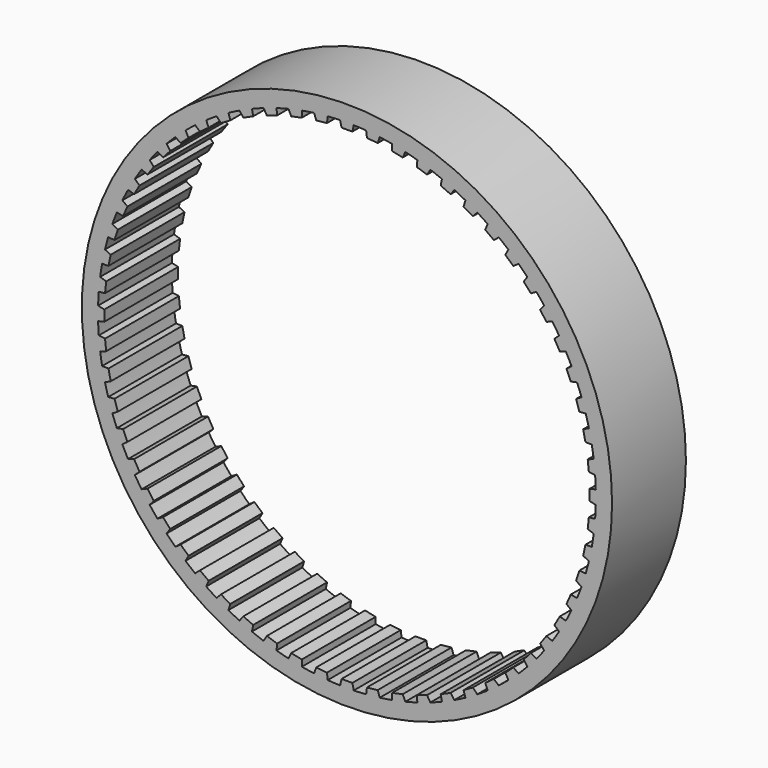
from build123d import *

# Parameters (mm, degrees)
F1_DEPTH = 25.4
F2_R     = 72.944607
F3_DEPTH = 25.4
F5_DEPTH = 25.401


with BuildPart() as f1:
    # F0 (on Front) → F1 (new body)
    with BuildSketch(Plane.XZ):
        with BuildLine():
            Line((-1.484159, 66.76133), (-1.87707, 68.459883))
            ThreePointArc((-1.87707, 68.459883), (-3.58426, 68.391755), (-5.289219, 68.28106))
            Line((-5.289219, 68.28106), (-5.50243, 66.550741))
            Line((-5.50243, 66.550741), (-8.454488, 66.240467))
            Line((-8.454488, 66.240467), (-9.022793, 67.888646))
            ThreePointArc((-9.022793, 67.888646), (-10.71351, 67.64244), (-12.397559, 67.354135))
            Line((-12.397559, 67.354135), (-12.428734, 65.611009))
            Line((-12.428734, 65.611009), (-15.332188, 64.99386))
            Line((-15.332188, 64.99386), (-16.069661, 66.573606))
            ThreePointArc((-16.069661, 66.573606), (-17.725381, 66.152021), (-19.370068, 65.689265))
            Line((-19.370068, 65.689265), (-19.218866, 63.952428))
            Line((-19.218866, 63.952428), (-22.041905, 63.035167))
            Line((-22.041905, 63.035167), (-22.940467, 64.529172))
            ThreePointArc((-22.940467, 64.529172), (-24.543048, 63.936827), (-26.130355, 63.304689))
            Line((-26.130355, 63.304689), (-25.798432, 61.593172))
            Line((-25.798432, 61.593172), (-28.510126, 60.385848))
            Line((-28.510126, 60.385848), (-29.559932, 61.777742))
            ThreePointArc((-29.559932, 61.777742), (-31.091817, 61.021127), (-32.604352, 60.226533))
            Line((-32.604352, 60.226533), (-32.095345, 58.559087))
            Line((-32.095345, 58.559087), (-34.665985, 57.074928))
            Line((-34.665985, 57.074928), (-35.855532, 58.349463))
            ThreePointArc((-35.855532, 58.349463), (-37.299937, 57.436867), (-38.721128, 56.488523))
            Line((-38.721128, 56.488523), (-38.040615, 54.883417))
            Line((-38.040615, 54.883417), (-40.442035, 53.138683))
            Line((-40.442035, 53.138683), (-41.758291, 54.281895))
            ThreePointArc((-41.758291, 54.281895), (-43.099392, 53.223317), (-44.413669, 52.131613))
            Line((-44.413669, 52.131613), (-43.569104, 50.606433))
            Line((-43.569104, 50.606433), (-45.774994, 48.62024))
            Line((-45.774994, 48.62024), (-47.203538, 49.619603))
            ThreePointArc((-47.203538, 49.619603), (-48.42664, 48.42664), (-49.619603, 47.203538))
            Line((-49.619603, 47.203538), (-48.62024, 45.774994))
            Line((-48.62024, 45.774994), (-50.606433, 43.569104))
            Line((-50.606433, 43.569104), (-52.131613, 44.413669))
            ThreePointArc((-52.131613, 44.413669), (-53.223317, 43.099392), (-54.281895, 41.758291))
            Line((-54.281895, 41.758291), (-53.138683, 40.442035))
            Line((-53.138683, 40.442035), (-54.883417, 38.040615))
            Line((-54.883417, 38.040615), (-56.488523, 38.721128))
            ThreePointArc((-56.488523, 38.721128), (-57.436867, 37.299937), (-58.349463, 35.855532))
            Line((-58.349463, 35.855532), (-57.074928, 34.665985))
            Line((-57.074928, 34.665985), (-58.559087, 32.095345))
            Line((-58.559087, 32.095345), (-60.226533, 32.604352))
            ThreePointArc((-60.226533, 32.604352), (-61.021127, 31.091817), (-61.777742, 29.559932))
            Line((-61.777742, 29.559932), (-60.385848, 28.510126))
            Line((-60.385848, 28.510126), (-61.593172, 25.798432))
            Line((-61.593172, 25.798432), (-63.304689, 26.130355))
            ThreePointArc((-63.304689, 26.130355), (-63.936827, 24.543048), (-64.529172, 22.940467))
            Line((-64.529172, 22.940467), (-63.035167, 22.041905))
            Line((-63.035167, 22.041905), (-63.952428, 19.218866))
            Line((-63.952428, 19.218866), (-65.689265, 19.370068))
            ThreePointArc((-65.689265, 19.370068), (-66.152021, 17.725381), (-66.573606, 16.069661))
            Line((-66.573606, 16.069661), (-64.99386, 15.332188))
            Line((-64.99386, 15.332188), (-65.611009, 12.428734))
            Line((-65.611009, 12.428734), (-67.354135, 12.397559))
            ThreePointArc((-67.354135, 12.397559), (-67.64244, 10.71351), (-67.888646, 9.022793))
            Line((-67.888646, 9.022793), (-66.240467, 8.454488))
            Line((-66.240467, 8.454488), (-66.550741, 5.50243))
            Line((-66.550741, 5.50243), (-68.28106, 5.289219))
            ThreePointArc((-68.28106, 5.289219), (-68.391755, 3.58426), (-68.459883, 1.87707))
            Line((-68.459883, 1.87707), (-66.76133, 1.484159))
            Line((-66.76133, 1.484159), (-66.76133, -1.484159))
            Line((-66.76133, -1.484159), (-68.459883, -1.87707))
            ThreePointArc((-68.459883, -1.87707), (-68.391755, -3.58426), (-68.28106, -5.289219))
            Line((-68.28106, -5.289219), (-66.550741, -5.50243))
            Line((-66.550741, -5.50243), (-66.240467, -8.454488))
            Line((-66.240467, -8.454488), (-67.888646, -9.022793))
            ThreePointArc((-67.888646, -9.022793), (-67.64244, -10.71351), (-67.354135, -12.397559))
            Line((-67.354135, -12.397559), (-65.611009, -12.428734))
            Line((-65.611009, -12.428734), (-64.99386, -15.332188))
            Line((-64.99386, -15.332188), (-66.573606, -16.069661))
            ThreePointArc((-66.573606, -16.069661), (-66.152021, -17.725381), (-65.689265, -19.370068))
            Line((-65.689265, -19.370068), (-63.952428, -19.218866))
            Line((-63.952428, -19.218866), (-63.035167, -22.041905))
            Line((-63.035167, -22.041905), (-64.529172, -22.940467))
            ThreePointArc((-64.529172, -22.940467), (-63.936827, -24.543048), (-63.304689, -26.130355))
            Line((-63.304689, -26.130355), (-61.593172, -25.798432))
            Line((-61.593172, -25.798432), (-60.385848, -28.510126))
            Line((-60.385848, -28.510126), (-61.777742, -29.559932))
            ThreePointArc((-61.777742, -29.559932), (-61.021127, -31.091817), (-60.226533, -32.604352))
            Line((-60.226533, -32.604352), (-58.559087, -32.095345))
            Line((-58.559087, -32.095345), (-57.074928, -34.665985))
            Line((-57.074928, -34.665985), (-58.349463, -35.855532))
            ThreePointArc((-58.349463, -35.855532), (-57.436867, -37.299937), (-56.488523, -38.721128))
            Line((-56.488523, -38.721128), (-54.883417, -38.040615))
            Line((-54.883417, -38.040615), (-53.138683, -40.442035))
            Line((-53.138683, -40.442035), (-54.281895, -41.758291))
            ThreePointArc((-54.281895, -41.758291), (-53.223317, -43.099392), (-52.131613, -44.413669))
            Line((-52.131613, -44.413669), (-50.606433, -43.569104))
            Line((-50.606433, -43.569104), (-48.62024, -45.774994))
            Line((-48.62024, -45.774994), (-49.619603, -47.203538))
            ThreePointArc((-49.619603, -47.203538), (-48.42664, -48.42664), (-47.203538, -49.619603))
            Line((-47.203538, -49.619603), (-45.774994, -48.62024))
            Line((-45.774994, -48.62024), (-43.569104, -50.606433))
            Line((-43.569104, -50.606433), (-44.413669, -52.131613))
            ThreePointArc((-44.413669, -52.131613), (-43.099392, -53.223317), (-41.758291, -54.281895))
            Line((-41.758291, -54.281895), (-40.442035, -53.138683))
            Line((-40.442035, -53.138683), (-38.040615, -54.883417))
            Line((-38.040615, -54.883417), (-38.721128, -56.488523))
            ThreePointArc((-38.721128, -56.488523), (-37.299937, -57.436867), (-35.855532, -58.349463))
            Line((-35.855532, -58.349463), (-34.665985, -57.074928))
            Line((-34.665985, -57.074928), (-32.095345, -58.559087))
            Line((-32.095345, -58.559087), (-32.604352, -60.226533))
            ThreePointArc((-32.604352, -60.226533), (-31.091817, -61.021127), (-29.559932, -61.777742))
            Line((-29.559932, -61.777742), (-28.510126, -60.385848))
            Line((-28.510126, -60.385848), (-25.798432, -61.593172))
            Line((-25.798432, -61.593172), (-26.130355, -63.304689))
            ThreePointArc((-26.130355, -63.304689), (-24.543048, -63.936827), (-22.940467, -64.529172))
            Line((-22.940467, -64.529172), (-22.041905, -63.035167))
            Line((-22.041905, -63.035167), (-19.218866, -63.952428))
            Line((-19.218866, -63.952428), (-19.370068, -65.689265))
            ThreePointArc((-19.370068, -65.689265), (-17.725381, -66.152021), (-16.069661, -66.573606))
            Line((-16.069661, -66.573606), (-15.332188, -64.99386))
            Line((-15.332188, -64.99386), (-12.428734, -65.611009))
            Line((-12.428734, -65.611009), (-12.397559, -67.354135))
            ThreePointArc((-12.397559, -67.354135), (-10.71351, -67.64244), (-9.022793, -67.888646))
            Line((-9.022793, -67.888646), (-8.454488, -66.240467))
            Line((-8.454488, -66.240467), (-5.50243, -66.550741))
            Line((-5.50243, -66.550741), (-5.289219, -68.28106))
            ThreePointArc((-5.289219, -68.28106), (-3.58426, -68.391755), (-1.87707, -68.459883))
            Line((-1.87707, -68.459883), (-1.484159, -66.76133))
            Line((-1.484159, -66.76133), (1.484159, -66.76133))
            Line((1.484159, -66.76133), (1.87707, -68.459883))
            ThreePointArc((1.87707, -68.459883), (3.58426, -68.391755), (5.289219, -68.28106))
            Line((5.289219, -68.28106), (5.50243, -66.550741))
            Line((5.50243, -66.550741), (8.454488, -66.240467))
            Line((8.454488, -66.240467), (9.022793, -67.888646))
            ThreePointArc((9.022793, -67.888646), (10.71351, -67.64244), (12.397559, -67.354135))
            Line((12.397559, -67.354135), (12.428734, -65.611009))
            Line((12.428734, -65.611009), (15.332188, -64.99386))
            Line((15.332188, -64.99386), (16.069661, -66.573606))
            ThreePointArc((16.069661, -66.573606), (17.725381, -66.152021), (19.370068, -65.689265))
            Line((19.370068, -65.689265), (19.218866, -63.952428))
            Line((19.218866, -63.952428), (22.041905, -63.035167))
            Line((22.041905, -63.035167), (22.940467, -64.529172))
            ThreePointArc((22.940467, -64.529172), (24.543048, -63.936827), (26.130355, -63.304689))
            Line((26.130355, -63.304689), (25.798432, -61.593172))
            Line((25.798432, -61.593172), (28.510126, -60.385848))
            Line((28.510126, -60.385848), (29.559932, -61.777742))
            ThreePointArc((29.559932, -61.777742), (31.091817, -61.021127), (32.604352, -60.226533))
            Line((32.604352, -60.226533), (32.095345, -58.559087))
            Line((32.095345, -58.559087), (34.665985, -57.074928))
            Line((34.665985, -57.074928), (35.855532, -58.349463))
            ThreePointArc((35.855532, -58.349463), (37.299937, -57.436867), (38.721128, -56.488523))
            Line((38.721128, -56.488523), (38.040615, -54.883417))
            Line((38.040615, -54.883417), (40.442035, -53.138683))
            Line((40.442035, -53.138683), (41.758291, -54.281895))
            ThreePointArc((41.758291, -54.281895), (43.099392, -53.223317), (44.413669, -52.131613))
            Line((44.413669, -52.131613), (43.569104, -50.606433))
            Line((43.569104, -50.606433), (45.774994, -48.62024))
            Line((45.774994, -48.62024), (47.203538, -49.619603))
            ThreePointArc((47.203538, -49.619603), (48.42664, -48.42664), (49.619603, -47.203538))
            Line((49.619603, -47.203538), (48.62024, -45.774994))
            Line((48.62024, -45.774994), (50.606433, -43.569104))
            Line((50.606433, -43.569104), (52.131613, -44.413669))
            ThreePointArc((52.131613, -44.413669), (53.223317, -43.099392), (54.281895, -41.758291))
            Line((54.281895, -41.758291), (53.138683, -40.442035))
            Line((53.138683, -40.442035), (54.883417, -38.040615))
            Line((54.883417, -38.040615), (56.488523, -38.721128))
            ThreePointArc((56.488523, -38.721128), (57.436867, -37.299937), (58.349463, -35.855532))
            Line((58.349463, -35.855532), (57.074928, -34.665985))
            Line((57.074928, -34.665985), (58.559087, -32.095345))
            Line((58.559087, -32.095345), (60.226533, -32.604352))
            ThreePointArc((60.226533, -32.604352), (61.021127, -31.091817), (61.777742, -29.559932))
            Line((61.777742, -29.559932), (60.385848, -28.510126))
            Line((60.385848, -28.510126), (61.593172, -25.798432))
            Line((61.593172, -25.798432), (63.304689, -26.130355))
            ThreePointArc((63.304689, -26.130355), (63.936827, -24.543048), (64.529172, -22.940467))
            Line((64.529172, -22.940467), (63.035167, -22.041905))
            Line((63.035167, -22.041905), (63.952428, -19.218866))
            Line((63.952428, -19.218866), (65.689265, -19.370068))
            ThreePointArc((65.689265, -19.370068), (66.152021, -17.725381), (66.573606, -16.069661))
            Line((66.573606, -16.069661), (64.99386, -15.332188))
            Line((64.99386, -15.332188), (65.611009, -12.428734))
            Line((65.611009, -12.428734), (67.354135, -12.397559))
            ThreePointArc((67.354135, -12.397559), (67.64244, -10.71351), (67.888646, -9.022793))
            Line((67.888646, -9.022793), (66.240467, -8.454488))
            Line((66.240467, -8.454488), (66.550741, -5.50243))
            Line((66.550741, -5.50243), (68.28106, -5.289219))
            ThreePointArc((68.28106, -5.289219), (68.391755, -3.58426), (68.459883, -1.87707))
            Line((68.459883, -1.87707), (66.76133, -1.484159))
            Line((66.76133, -1.484159), (66.76133, 1.484159))
            Line((66.76133, 1.484159), (68.459883, 1.87707))
            ThreePointArc((68.459883, 1.87707), (68.391755, 3.58426), (68.28106, 5.289219))
            Line((68.28106, 5.289219), (66.550741, 5.50243))
            Line((66.550741, 5.50243), (66.240467, 8.454488))
            Line((66.240467, 8.454488), (67.888646, 9.022793))
            ThreePointArc((67.888646, 9.022793), (67.64244, 10.71351), (67.354135, 12.397559))
            Line((67.354135, 12.397559), (65.611009, 12.428734))
            Line((65.611009, 12.428734), (64.99386, 15.332188))
            Line((64.99386, 15.332188), (66.573606, 16.069661))
            ThreePointArc((66.573606, 16.069661), (66.152021, 17.725381), (65.689265, 19.370068))
            Line((65.689265, 19.370068), (63.952428, 19.218866))
            Line((63.952428, 19.218866), (63.035167, 22.041905))
            Line((63.035167, 22.041905), (64.529172, 22.940467))
            ThreePointArc((64.529172, 22.940467), (63.936827, 24.543048), (63.304689, 26.130355))
            Line((63.304689, 26.130355), (61.593172, 25.798432))
            Line((61.593172, 25.798432), (60.385848, 28.510126))
            Line((60.385848, 28.510126), (61.777742, 29.559932))
            ThreePointArc((61.777742, 29.559932), (61.021127, 31.091817), (60.226533, 32.604352))
            Line((60.226533, 32.604352), (58.559087, 32.095345))
            Line((58.559087, 32.095345), (57.074928, 34.665985))
            Line((57.074928, 34.665985), (58.349463, 35.855532))
            ThreePointArc((58.349463, 35.855532), (57.436867, 37.299937), (56.488523, 38.721128))
            Line((56.488523, 38.721128), (54.883417, 38.040615))
            Line((54.883417, 38.040615), (53.138683, 40.442035))
            Line((53.138683, 40.442035), (54.281895, 41.758291))
            ThreePointArc((54.281895, 41.758291), (53.223317, 43.099392), (52.131613, 44.413669))
            Line((52.131613, 44.413669), (50.606433, 43.569104))
            Line((50.606433, 43.569104), (48.62024, 45.774994))
            Line((48.62024, 45.774994), (49.619603, 47.203538))
            ThreePointArc((49.619603, 47.203538), (48.42664, 48.42664), (47.203538, 49.619603))
            Line((47.203538, 49.619603), (45.774994, 48.62024))
            Line((45.774994, 48.62024), (43.569104, 50.606433))
            Line((43.569104, 50.606433), (44.413669, 52.131613))
            ThreePointArc((44.413669, 52.131613), (43.099392, 53.223317), (41.758291, 54.281895))
            Line((41.758291, 54.281895), (40.442035, 53.138683))
            Line((40.442035, 53.138683), (38.040615, 54.883417))
            Line((38.040615, 54.883417), (38.721128, 56.488523))
            ThreePointArc((38.721128, 56.488523), (37.299937, 57.436867), (35.855532, 58.349463))
            Line((35.855532, 58.349463), (34.665985, 57.074928))
            Line((34.665985, 57.074928), (32.095345, 58.559087))
            Line((32.095345, 58.559087), (32.604352, 60.226533))
            ThreePointArc((32.604352, 60.226533), (31.091817, 61.021127), (29.559932, 61.777742))
            Line((29.559932, 61.777742), (28.510126, 60.385848))
            Line((28.510126, 60.385848), (25.798432, 61.593172))
            Line((25.798432, 61.593172), (26.130355, 63.304689))
            ThreePointArc((26.130355, 63.304689), (24.543048, 63.936827), (22.940467, 64.529172))
            Line((22.940467, 64.529172), (22.041905, 63.035167))
            Line((22.041905, 63.035167), (19.218866, 63.952428))
            Line((19.218866, 63.952428), (19.370068, 65.689265))
            ThreePointArc((19.370068, 65.689265), (17.725381, 66.152021), (16.069661, 66.573606))
            Line((16.069661, 66.573606), (15.332188, 64.99386))
            Line((15.332188, 64.99386), (12.428734, 65.611009))
            Line((12.428734, 65.611009), (12.397559, 67.354135))
            ThreePointArc((12.397559, 67.354135), (10.71351, 67.64244), (9.022793, 67.888646))
            Line((9.022793, 67.888646), (8.454488, 66.240467))
            Line((8.454488, 66.240467), (5.50243, 66.550741))
            Line((5.50243, 66.550741), (5.289219, 68.28106))
            ThreePointArc((5.289219, 68.28106), (3.58426, 68.391755), (1.87707, 68.459883))
            Line((1.87707, 68.459883), (1.484159, 66.76133))
            Line((1.484159, 66.76133), (-1.484159, 66.76133))
        make_face()
    extrude(amount=F1_DEPTH)

    # F2 (on face) → F3 (join)
    with BuildSketch(Plane.XZ.offset(25.4)):
        Circle(F2_R)
        with BuildLine():
            Line((58.559087, -32.095345), (57.074928, -34.665985))
            Line((57.074928, -34.665985), (58.349463, -35.855532))
            ThreePointArc((58.349463, -35.855532), (57.436867, -37.299937), (56.488523, -38.721128))
            Line((56.488523, -38.721128), (54.883417, -38.040615))
            Line((54.883417, -38.040615), (53.138683, -40.442035))
            Line((53.138683, -40.442035), (54.281895, -41.758291))
            ThreePointArc((54.281895, -41.758291), (53.223317, -43.099392), (52.131613, -44.413669))
            Line((52.131613, -44.413669), (50.606433, -43.569104))
            Line((50.606433, -43.569104), (48.62024, -45.774994))
            Line((48.62024, -45.774994), (49.619603, -47.203538))
            ThreePointArc((49.619603, -47.203538), (48.42664, -48.42664), (47.203538, -49.619603))
            Line((47.203538, -49.619603), (45.774994, -48.62024))
            Line((45.774994, -48.62024), (43.569104, -50.606433))
            Line((43.569104, -50.606433), (44.413669, -52.131613))
            ThreePointArc((44.413669, -52.131613), (43.099392, -53.223317), (41.758291, -54.281895))
            Line((41.758291, -54.281895), (40.442035, -53.138683))
            Line((40.442035, -53.138683), (38.040615, -54.883417))
            Line((38.040615, -54.883417), (38.721128, -56.488523))
            ThreePointArc((38.721128, -56.488523), (37.299937, -57.436867), (35.855532, -58.349463))
            Line((35.855532, -58.349463), (34.665985, -57.074928))
            Line((34.665985, -57.074928), (32.095345, -58.559087))
            Line((32.095345, -58.559087), (32.604352, -60.226533))
            ThreePointArc((32.604352, -60.226533), (31.091817, -61.021127), (29.559932, -61.777742))
            Line((29.559932, -61.777742), (28.510126, -60.385848))
            Line((28.510126, -60.385848), (25.798432, -61.593172))
            Line((25.798432, -61.593172), (26.130355, -63.304689))
            ThreePointArc((26.130355, -63.304689), (24.543048, -63.936827), (22.940467, -64.529172))
            Line((22.940467, -64.529172), (22.041905, -63.035167))
            Line((22.041905, -63.035167), (19.218866, -63.952428))
            Line((19.218866, -63.952428), (19.370068, -65.689265))
            ThreePointArc((19.370068, -65.689265), (17.725381, -66.152021), (16.069661, -66.573606))
            Line((16.069661, -66.573606), (15.332188, -64.99386))
            Line((15.332188, -64.99386), (12.428734, -65.611009))
            Line((12.428734, -65.611009), (12.397559, -67.354135))
            ThreePointArc((12.397559, -67.354135), (10.71351, -67.64244), (9.022793, -67.888646))
            Line((9.022793, -67.888646), (8.454488, -66.240467))
            Line((8.454488, -66.240467), (5.50243, -66.550741))
            Line((5.50243, -66.550741), (5.289219, -68.28106))
            ThreePointArc((5.289219, -68.28106), (3.58426, -68.391755), (1.87707, -68.459883))
            Line((1.87707, -68.459883), (1.484159, -66.76133))
            Line((1.484159, -66.76133), (-1.484159, -66.76133))
            Line((-1.484159, -66.76133), (-1.87707, -68.459883))
            ThreePointArc((-1.87707, -68.459883), (-3.58426, -68.391755), (-5.289219, -68.28106))
            Line((-5.289219, -68.28106), (-5.50243, -66.550741))
            Line((-5.50243, -66.550741), (-8.454488, -66.240467))
            Line((-8.454488, -66.240467), (-9.022793, -67.888646))
            ThreePointArc((-9.022793, -67.888646), (-10.71351, -67.64244), (-12.397559, -67.354135))
            Line((-12.397559, -67.354135), (-12.428734, -65.611009))
            Line((-12.428734, -65.611009), (-15.332188, -64.99386))
            Line((-15.332188, -64.99386), (-16.069661, -66.573606))
            ThreePointArc((-16.069661, -66.573606), (-17.725381, -66.152021), (-19.370068, -65.689265))
            Line((-19.370068, -65.689265), (-19.218866, -63.952428))
            Line((-19.218866, -63.952428), (-22.041905, -63.035167))
            Line((-22.041905, -63.035167), (-22.940467, -64.529172))
            ThreePointArc((-22.940467, -64.529172), (-24.543048, -63.936827), (-26.130355, -63.304689))
            Line((-26.130355, -63.304689), (-25.798432, -61.593172))
            Line((-25.798432, -61.593172), (-28.510126, -60.385848))
            Line((-28.510126, -60.385848), (-29.559932, -61.777742))
            ThreePointArc((-29.559932, -61.777742), (-31.091817, -61.021127), (-32.604352, -60.226533))
            Line((-32.604352, -60.226533), (-32.095345, -58.559087))
            Line((-32.095345, -58.559087), (-34.665985, -57.074928))
            Line((-34.665985, -57.074928), (-35.855532, -58.349463))
            ThreePointArc((-35.855532, -58.349463), (-37.299937, -57.436867), (-38.721128, -56.488523))
            Line((-38.721128, -56.488523), (-38.040615, -54.883417))
            Line((-38.040615, -54.883417), (-40.442035, -53.138683))
            Line((-40.442035, -53.138683), (-41.758291, -54.281895))
            ThreePointArc((-41.758291, -54.281895), (-43.099392, -53.223317), (-44.413669, -52.131613))
            Line((-44.413669, -52.131613), (-43.569104, -50.606433))
            Line((-43.569104, -50.606433), (-45.774994, -48.62024))
            Line((-45.774994, -48.62024), (-47.203538, -49.619603))
            ThreePointArc((-47.203538, -49.619603), (-48.42664, -48.42664), (-49.619603, -47.203538))
            Line((-49.619603, -47.203538), (-48.62024, -45.774994))
            Line((-48.62024, -45.774994), (-50.606433, -43.569104))
            Line((-50.606433, -43.569104), (-52.131613, -44.413669))
            ThreePointArc((-52.131613, -44.413669), (-53.223317, -43.099392), (-54.281895, -41.758291))
            Line((-54.281895, -41.758291), (-53.138683, -40.442035))
            Line((-53.138683, -40.442035), (-54.883417, -38.040615))
            Line((-54.883417, -38.040615), (-56.488523, -38.721128))
            ThreePointArc((-56.488523, -38.721128), (-57.436867, -37.299937), (-58.349463, -35.855532))
            Line((-58.349463, -35.855532), (-57.074928, -34.665985))
            Line((-57.074928, -34.665985), (-58.559087, -32.095345))
            Line((-58.559087, -32.095345), (-60.226533, -32.604352))
            ThreePointArc((-60.226533, -32.604352), (-61.021127, -31.091817), (-61.777742, -29.559932))
            Line((-61.777742, -29.559932), (-60.385848, -28.510126))
            Line((-60.385848, -28.510126), (-61.593172, -25.798432))
            Line((-61.593172, -25.798432), (-63.304689, -26.130355))
            ThreePointArc((-63.304689, -26.130355), (-63.936827, -24.543048), (-64.529172, -22.940467))
            Line((-64.529172, -22.940467), (-63.035167, -22.041905))
            Line((-63.035167, -22.041905), (-63.952428, -19.218866))
            Line((-63.952428, -19.218866), (-65.689265, -19.370068))
            ThreePointArc((-65.689265, -19.370068), (-66.152021, -17.725381), (-66.573606, -16.069661))
            Line((-66.573606, -16.069661), (-64.99386, -15.332188))
            Line((-64.99386, -15.332188), (-65.611009, -12.428734))
            Line((-65.611009, -12.428734), (-67.354135, -12.397559))
            ThreePointArc((-67.354135, -12.397559), (-67.64244, -10.71351), (-67.888646, -9.022793))
            Line((-67.888646, -9.022793), (-66.240467, -8.454488))
            Line((-66.240467, -8.454488), (-66.550741, -5.50243))
            Line((-66.550741, -5.50243), (-68.28106, -5.289219))
            ThreePointArc((-68.28106, -5.289219), (-68.391755, -3.58426), (-68.459883, -1.87707))
            Line((-68.459883, -1.87707), (-66.76133, -1.484159))
            Line((-66.76133, -1.484159), (-66.76133, 1.484159))
            Line((-66.76133, 1.484159), (-68.459883, 1.87707))
            ThreePointArc((-68.459883, 1.87707), (-68.391755, 3.58426), (-68.28106, 5.289219))
            Line((-68.28106, 5.289219), (-66.550741, 5.50243))
            Line((-66.550741, 5.50243), (-66.240467, 8.454488))
            Line((-66.240467, 8.454488), (-67.888646, 9.022793))
            ThreePointArc((-67.888646, 9.022793), (-67.64244, 10.71351), (-67.354135, 12.397559))
            Line((-67.354135, 12.397559), (-65.611009, 12.428734))
            Line((-65.611009, 12.428734), (-64.99386, 15.332188))
            Line((-64.99386, 15.332188), (-66.573606, 16.069661))
            ThreePointArc((-66.573606, 16.069661), (-66.152021, 17.725381), (-65.689265, 19.370068))
            Line((-65.689265, 19.370068), (-63.952428, 19.218866))
            Line((-63.952428, 19.218866), (-63.035167, 22.041905))
            Line((-63.035167, 22.041905), (-64.529172, 22.940467))
            ThreePointArc((-64.529172, 22.940467), (-63.936827, 24.543048), (-63.304689, 26.130355))
            Line((-63.304689, 26.130355), (-61.593172, 25.798432))
            Line((-61.593172, 25.798432), (-60.385848, 28.510126))
            Line((-60.385848, 28.510126), (-61.777742, 29.559932))
            ThreePointArc((-61.777742, 29.559932), (-61.021127, 31.091817), (-60.226533, 32.604352))
            Line((-60.226533, 32.604352), (-58.559087, 32.095345))
            Line((-58.559087, 32.095345), (-57.074928, 34.665985))
            Line((-57.074928, 34.665985), (-58.349463, 35.855532))
            ThreePointArc((-58.349463, 35.855532), (-57.436867, 37.299937), (-56.488523, 38.721128))
            Line((-56.488523, 38.721128), (-54.883417, 38.040615))
            Line((-54.883417, 38.040615), (-53.138683, 40.442035))
            Line((-53.138683, 40.442035), (-54.281895, 41.758291))
            ThreePointArc((-54.281895, 41.758291), (-53.223317, 43.099392), (-52.131613, 44.413669))
            Line((-52.131613, 44.413669), (-50.606433, 43.569104))
            Line((-50.606433, 43.569104), (-48.62024, 45.774994))
            Line((-48.62024, 45.774994), (-49.619603, 47.203538))
            ThreePointArc((-49.619603, 47.203538), (-48.42664, 48.42664), (-47.203538, 49.619603))
            Line((-47.203538, 49.619603), (-45.774994, 48.62024))
            Line((-45.774994, 48.62024), (-43.569104, 50.606433))
            Line((-43.569104, 50.606433), (-44.413669, 52.131613))
            ThreePointArc((-44.413669, 52.131613), (-43.099392, 53.223317), (-41.758291, 54.281895))
            Line((-41.758291, 54.281895), (-40.442035, 53.138683))
            Line((-40.442035, 53.138683), (-38.040615, 54.883417))
            Line((-38.040615, 54.883417), (-38.721128, 56.488523))
            ThreePointArc((-38.721128, 56.488523), (-37.299937, 57.436867), (-35.855532, 58.349463))
            Line((-35.855532, 58.349463), (-34.665985, 57.074928))
            Line((-34.665985, 57.074928), (-32.095345, 58.559087))
            Line((-32.095345, 58.559087), (-32.604352, 60.226533))
            ThreePointArc((-32.604352, 60.226533), (-31.091817, 61.021127), (-29.559932, 61.777742))
            Line((-29.559932, 61.777742), (-28.510126, 60.385848))
            Line((-28.510126, 60.385848), (-25.798432, 61.593172))
            Line((-25.798432, 61.593172), (-26.130355, 63.304689))
            ThreePointArc((-26.130355, 63.304689), (-24.543048, 63.936827), (-22.940467, 64.529172))
            Line((-22.940467, 64.529172), (-22.041905, 63.035167))
            Line((-22.041905, 63.035167), (-19.218866, 63.952428))
            Line((-19.218866, 63.952428), (-19.370068, 65.689265))
            ThreePointArc((-19.370068, 65.689265), (-17.725381, 66.152021), (-16.069661, 66.573606))
            Line((-16.069661, 66.573606), (-15.332188, 64.99386))
            Line((-15.332188, 64.99386), (-12.428734, 65.611009))
            Line((-12.428734, 65.611009), (-12.397559, 67.354135))
            ThreePointArc((-12.397559, 67.354135), (-10.71351, 67.64244), (-9.022793, 67.888646))
            Line((-9.022793, 67.888646), (-8.454488, 66.240467))
            Line((-8.454488, 66.240467), (-5.50243, 66.550741))
            Line((-5.50243, 66.550741), (-5.289219, 68.28106))
            ThreePointArc((-5.289219, 68.28106), (-3.58426, 68.391755), (-1.87707, 68.459883))
            Line((-1.87707, 68.459883), (-1.484159, 66.76133))
            Line((-1.484159, 66.76133), (1.484159, 66.76133))
            Line((1.484159, 66.76133), (1.87707, 68.459883))
            ThreePointArc((1.87707, 68.459883), (3.58426, 68.391755), (5.289219, 68.28106))
            Line((5.289219, 68.28106), (5.50243, 66.550741))
            Line((5.50243, 66.550741), (8.454488, 66.240467))
            Line((8.454488, 66.240467), (9.022793, 67.888646))
            ThreePointArc((9.022793, 67.888646), (10.71351, 67.64244), (12.397559, 67.354135))
            Line((12.397559, 67.354135), (12.428734, 65.611009))
            Line((12.428734, 65.611009), (15.332188, 64.99386))
            Line((15.332188, 64.99386), (16.069661, 66.573606))
            ThreePointArc((16.069661, 66.573606), (17.725381, 66.152021), (19.370068, 65.689265))
            Line((19.370068, 65.689265), (19.218866, 63.952428))
            Line((19.218866, 63.952428), (22.041905, 63.035167))
            Line((22.041905, 63.035167), (22.940467, 64.529172))
            ThreePointArc((22.940467, 64.529172), (24.543048, 63.936827), (26.130355, 63.304689))
            Line((26.130355, 63.304689), (25.798432, 61.593172))
            Line((25.798432, 61.593172), (28.510126, 60.385848))
            Line((28.510126, 60.385848), (29.559932, 61.777742))
            ThreePointArc((29.559932, 61.777742), (31.091817, 61.021127), (32.604352, 60.226533))
            Line((32.604352, 60.226533), (32.095345, 58.559087))
            Line((32.095345, 58.559087), (34.665985, 57.074928))
            Line((34.665985, 57.074928), (35.855532, 58.349463))
            ThreePointArc((35.855532, 58.349463), (37.299937, 57.436867), (38.721128, 56.488523))
            Line((38.721128, 56.488523), (38.040615, 54.883417))
            Line((38.040615, 54.883417), (40.442035, 53.138683))
            Line((40.442035, 53.138683), (41.758291, 54.281895))
            ThreePointArc((41.758291, 54.281895), (43.099392, 53.223317), (44.413669, 52.131613))
            Line((44.413669, 52.131613), (43.569104, 50.606433))
            Line((43.569104, 50.606433), (45.774994, 48.62024))
            Line((45.774994, 48.62024), (47.203538, 49.619603))
            ThreePointArc((47.203538, 49.619603), (48.42664, 48.42664), (49.619603, 47.203538))
            Line((49.619603, 47.203538), (48.62024, 45.774994))
            Line((48.62024, 45.774994), (50.606433, 43.569104))
            Line((50.606433, 43.569104), (52.131613, 44.413669))
            ThreePointArc((52.131613, 44.413669), (53.223317, 43.099392), (54.281895, 41.758291))
            Line((54.281895, 41.758291), (53.138683, 40.442035))
            Line((53.138683, 40.442035), (54.883417, 38.040615))
            Line((54.883417, 38.040615), (56.488523, 38.721128))
            ThreePointArc((56.488523, 38.721128), (57.436867, 37.299937), (58.349463, 35.855532))
            Line((58.349463, 35.855532), (57.074928, 34.665985))
            Line((57.074928, 34.665985), (58.559087, 32.095345))
            Line((58.559087, 32.095345), (60.226533, 32.604352))
            ThreePointArc((60.226533, 32.604352), (61.021127, 31.091817), (61.777742, 29.559932))
            Line((61.777742, 29.559932), (60.385848, 28.510126))
            Line((60.385848, 28.510126), (61.593172, 25.798432))
            Line((61.593172, 25.798432), (63.304689, 26.130355))
            ThreePointArc((63.304689, 26.130355), (63.936827, 24.543048), (64.529172, 22.940467))
            Line((64.529172, 22.940467), (63.035167, 22.041905))
            Line((63.035167, 22.041905), (63.952428, 19.218866))
            Line((63.952428, 19.218866), (65.689265, 19.370068))
            ThreePointArc((65.689265, 19.370068), (66.152021, 17.725381), (66.573606, 16.069661))
            Line((66.573606, 16.069661), (64.99386, 15.332188))
            Line((64.99386, 15.332188), (65.611009, 12.428734))
            Line((65.611009, 12.428734), (67.354135, 12.397559))
            ThreePointArc((67.354135, 12.397559), (67.64244, 10.71351), (67.888646, 9.022793))
            Line((67.888646, 9.022793), (66.240467, 8.454488))
            Line((66.240467, 8.454488), (66.550741, 5.50243))
            Line((66.550741, 5.50243), (68.28106, 5.289219))
            ThreePointArc((68.28106, 5.289219), (68.391755, 3.58426), (68.459883, 1.87707))
            Line((68.459883, 1.87707), (66.76133, 1.484159))
            Line((66.76133, 1.484159), (66.76133, -1.484159))
            Line((66.76133, -1.484159), (68.459883, -1.87707))
            ThreePointArc((68.459883, -1.87707), (68.391755, -3.58426), (68.28106, -5.289219))
            Line((68.28106, -5.289219), (66.550741, -5.50243))
            Line((66.550741, -5.50243), (66.240467, -8.454488))
            Line((66.240467, -8.454488), (67.888646, -9.022793))
            ThreePointArc((67.888646, -9.022793), (67.64244, -10.71351), (67.354135, -12.397559))
            Line((67.354135, -12.397559), (65.611009, -12.428734))
            Line((65.611009, -12.428734), (64.99386, -15.332188))
            Line((64.99386, -15.332188), (66.573606, -16.069661))
            ThreePointArc((66.573606, -16.069661), (66.152021, -17.725381), (65.689265, -19.370068))
            Line((65.689265, -19.370068), (63.952428, -19.218866))
            Line((63.952428, -19.218866), (63.035167, -22.041905))
            Line((63.035167, -22.041905), (64.529172, -22.940467))
            ThreePointArc((64.529172, -22.940467), (63.936827, -24.543048), (63.304689, -26.130355))
            Line((63.304689, -26.130355), (61.593172, -25.798432))
            Line((61.593172, -25.798432), (60.385848, -28.510126))
            Line((60.385848, -28.510126), (61.777742, -29.559932))
            ThreePointArc((61.777742, -29.559932), (61.021127, -31.091817), (60.226533, -32.604352))
            Line((60.226533, -32.604352), (58.559087, -32.095345))
        make_face(mode=Mode.SUBTRACT)
    extrude(amount=F3_DEPTH)

    # F4 (on face) → F5 (cut, through all)
    with BuildSketch(Plane.XZ.offset(25.4)):
        with BuildLine():
            Line((58.349463, -35.855532), (57.074928, -34.665985))
            Line((57.074928, -34.665985), (58.559087, -32.095345))
            Line((58.559087, -32.095345), (60.226533, -32.604352))
            ThreePointArc((60.226533, -32.604352), (61.021127, -31.091817), (61.777742, -29.559932))
            Line((61.777742, -29.559932), (60.385848, -28.510126))
            Line((60.385848, -28.510126), (61.593172, -25.798432))
            Line((61.593172, -25.798432), (63.304689, -26.130355))
            ThreePointArc((63.304689, -26.130355), (63.936827, -24.543048), (64.529172, -22.940467))
            Line((64.529172, -22.940467), (63.035167, -22.041905))
            Line((63.035167, -22.041905), (63.952428, -19.218866))
            Line((63.952428, -19.218866), (65.689265, -19.370068))
            ThreePointArc((65.689265, -19.370068), (66.152021, -17.725381), (66.573606, -16.069661))
            Line((66.573606, -16.069661), (64.99386, -15.332188))
            Line((64.99386, -15.332188), (65.611009, -12.428734))
            Line((65.611009, -12.428734), (67.354135, -12.397559))
            ThreePointArc((67.354135, -12.397559), (67.64244, -10.71351), (67.888646, -9.022793))
            Line((67.888646, -9.022793), (66.240467, -8.454488))
            Line((66.240467, -8.454488), (66.550741, -5.50243))
            Line((66.550741, -5.50243), (68.28106, -5.289219))
            ThreePointArc((68.28106, -5.289219), (68.391755, -3.58426), (68.459883, -1.87707))
            Line((68.459883, -1.87707), (66.76133, -1.484159))
            Line((66.76133, -1.484159), (66.76133, 1.484159))
            Line((66.76133, 1.484159), (68.459883, 1.87707))
            ThreePointArc((68.459883, 1.87707), (68.391755, 3.58426), (68.28106, 5.289219))
            Line((68.28106, 5.289219), (66.550741, 5.50243))
            Line((66.550741, 5.50243), (66.240467, 8.454488))
            Line((66.240467, 8.454488), (67.888646, 9.022793))
            ThreePointArc((67.888646, 9.022793), (67.64244, 10.71351), (67.354135, 12.397559))
            Line((67.354135, 12.397559), (65.611009, 12.428734))
            Line((65.611009, 12.428734), (64.99386, 15.332188))
            Line((64.99386, 15.332188), (66.573606, 16.069661))
            ThreePointArc((66.573606, 16.069661), (66.152021, 17.725381), (65.689265, 19.370068))
            Line((65.689265, 19.370068), (63.952428, 19.218866))
            Line((63.952428, 19.218866), (63.035167, 22.041905))
            Line((63.035167, 22.041905), (64.529172, 22.940467))
            ThreePointArc((64.529172, 22.940467), (63.936827, 24.543048), (63.304689, 26.130355))
            Line((63.304689, 26.130355), (61.593172, 25.798432))
            Line((61.593172, 25.798432), (60.385848, 28.510126))
            Line((60.385848, 28.510126), (61.777742, 29.559932))
            ThreePointArc((61.777742, 29.559932), (61.021127, 31.091817), (60.226533, 32.604352))
            Line((60.226533, 32.604352), (58.559087, 32.095345))
            Line((58.559087, 32.095345), (57.074928, 34.665985))
            Line((57.074928, 34.665985), (58.349463, 35.855532))
            ThreePointArc((58.349463, 35.855532), (57.436867, 37.299937), (56.488523, 38.721128))
            Line((56.488523, 38.721128), (54.883417, 38.040615))
            Line((54.883417, 38.040615), (53.138683, 40.442035))
            Line((53.138683, 40.442035), (54.281895, 41.758291))
            ThreePointArc((54.281895, 41.758291), (53.223317, 43.099392), (52.131613, 44.413669))
            Line((52.131613, 44.413669), (50.606433, 43.569104))
            Line((50.606433, 43.569104), (48.62024, 45.774994))
            Line((48.62024, 45.774994), (49.619603, 47.203538))
            ThreePointArc((49.619603, 47.203538), (48.42664, 48.42664), (47.203538, 49.619603))
            Line((47.203538, 49.619603), (45.774994, 48.62024))
            Line((45.774994, 48.62024), (43.569104, 50.606433))
            Line((43.569104, 50.606433), (44.413669, 52.131613))
            ThreePointArc((44.413669, 52.131613), (43.099392, 53.223317), (41.758291, 54.281895))
            Line((41.758291, 54.281895), (40.442035, 53.138683))
            Line((40.442035, 53.138683), (38.040615, 54.883417))
            Line((38.040615, 54.883417), (38.721128, 56.488523))
            ThreePointArc((38.721128, 56.488523), (37.299937, 57.436867), (35.855532, 58.349463))
            Line((35.855532, 58.349463), (34.665985, 57.074928))
            Line((34.665985, 57.074928), (32.095345, 58.559087))
            Line((32.095345, 58.559087), (32.604352, 60.226533))
            ThreePointArc((32.604352, 60.226533), (31.091817, 61.021127), (29.559932, 61.777742))
            Line((29.559932, 61.777742), (28.510126, 60.385848))
            Line((28.510126, 60.385848), (25.798432, 61.593172))
            Line((25.798432, 61.593172), (26.130355, 63.304689))
            ThreePointArc((26.130355, 63.304689), (24.543048, 63.936827), (22.940467, 64.529172))
            Line((22.940467, 64.529172), (22.041905, 63.035167))
            Line((22.041905, 63.035167), (19.218866, 63.952428))
            Line((19.218866, 63.952428), (19.370068, 65.689265))
            ThreePointArc((19.370068, 65.689265), (17.725381, 66.152021), (16.069661, 66.573606))
            Line((16.069661, 66.573606), (15.332188, 64.99386))
            Line((15.332188, 64.99386), (12.428734, 65.611009))
            Line((12.428734, 65.611009), (12.397559, 67.354135))
            ThreePointArc((12.397559, 67.354135), (10.71351, 67.64244), (9.022793, 67.888646))
            Line((9.022793, 67.888646), (8.454488, 66.240467))
            Line((8.454488, 66.240467), (5.50243, 66.550741))
            Line((5.50243, 66.550741), (5.289219, 68.28106))
            ThreePointArc((5.289219, 68.28106), (3.58426, 68.391755), (1.87707, 68.459883))
            Line((1.87707, 68.459883), (1.484159, 66.76133))
            Line((1.484159, 66.76133), (-1.484159, 66.76133))
            Line((-1.484159, 66.76133), (-1.87707, 68.459883))
            ThreePointArc((-1.87707, 68.459883), (-3.58426, 68.391755), (-5.289219, 68.28106))
            Line((-5.289219, 68.28106), (-5.50243, 66.550741))
            Line((-5.50243, 66.550741), (-8.454488, 66.240467))
            Line((-8.454488, 66.240467), (-9.022793, 67.888646))
            ThreePointArc((-9.022793, 67.888646), (-10.71351, 67.64244), (-12.397559, 67.354135))
            Line((-12.397559, 67.354135), (-12.428734, 65.611009))
            Line((-12.428734, 65.611009), (-15.332188, 64.99386))
            Line((-15.332188, 64.99386), (-16.069661, 66.573606))
            ThreePointArc((-16.069661, 66.573606), (-17.725381, 66.152021), (-19.370068, 65.689265))
            Line((-19.370068, 65.689265), (-19.218866, 63.952428))
            Line((-19.218866, 63.952428), (-22.041905, 63.035167))
            Line((-22.041905, 63.035167), (-22.940467, 64.529172))
            ThreePointArc((-22.940467, 64.529172), (-24.543048, 63.936827), (-26.130355, 63.304689))
            Line((-26.130355, 63.304689), (-25.798432, 61.593172))
            Line((-25.798432, 61.593172), (-28.510126, 60.385848))
            Line((-28.510126, 60.385848), (-29.559932, 61.777742))
            ThreePointArc((-29.559932, 61.777742), (-31.091817, 61.021127), (-32.604352, 60.226533))
            Line((-32.604352, 60.226533), (-32.095345, 58.559087))
            Line((-32.095345, 58.559087), (-34.665985, 57.074928))
            Line((-34.665985, 57.074928), (-35.855532, 58.349463))
            ThreePointArc((-35.855532, 58.349463), (-37.299937, 57.436867), (-38.721128, 56.488523))
            Line((-38.721128, 56.488523), (-38.040615, 54.883417))
            Line((-38.040615, 54.883417), (-40.442035, 53.138683))
            Line((-40.442035, 53.138683), (-41.758291, 54.281895))
            ThreePointArc((-41.758291, 54.281895), (-43.099392, 53.223317), (-44.413669, 52.131613))
            Line((-44.413669, 52.131613), (-43.569104, 50.606433))
            Line((-43.569104, 50.606433), (-45.774994, 48.62024))
            Line((-45.774994, 48.62024), (-47.203538, 49.619603))
            ThreePointArc((-47.203538, 49.619603), (-48.42664, 48.42664), (-49.619603, 47.203538))
            Line((-49.619603, 47.203538), (-48.62024, 45.774994))
            Line((-48.62024, 45.774994), (-50.606433, 43.569104))
            Line((-50.606433, 43.569104), (-52.131613, 44.413669))
            ThreePointArc((-52.131613, 44.413669), (-53.223317, 43.099392), (-54.281895, 41.758291))
            Line((-54.281895, 41.758291), (-53.138683, 40.442035))
            Line((-53.138683, 40.442035), (-54.883417, 38.040615))
            Line((-54.883417, 38.040615), (-56.488523, 38.721128))
            ThreePointArc((-56.488523, 38.721128), (-57.436867, 37.299937), (-58.349463, 35.855532))
            Line((-58.349463, 35.855532), (-57.074928, 34.665985))
            Line((-57.074928, 34.665985), (-58.559087, 32.095345))
            Line((-58.559087, 32.095345), (-60.226533, 32.604352))
            ThreePointArc((-60.226533, 32.604352), (-61.021127, 31.091817), (-61.777742, 29.559932))
            Line((-61.777742, 29.559932), (-60.385848, 28.510126))
            Line((-60.385848, 28.510126), (-61.593172, 25.798432))
            Line((-61.593172, 25.798432), (-63.304689, 26.130355))
            ThreePointArc((-63.304689, 26.130355), (-63.936827, 24.543048), (-64.529172, 22.940467))
            Line((-64.529172, 22.940467), (-63.035167, 22.041905))
            Line((-63.035167, 22.041905), (-63.952428, 19.218866))
            Line((-63.952428, 19.218866), (-65.689265, 19.370068))
            ThreePointArc((-65.689265, 19.370068), (-66.152021, 17.725381), (-66.573606, 16.069661))
            Line((-66.573606, 16.069661), (-64.99386, 15.332188))
            Line((-64.99386, 15.332188), (-65.611009, 12.428734))
            Line((-65.611009, 12.428734), (-67.354135, 12.397559))
            ThreePointArc((-67.354135, 12.397559), (-67.64244, 10.71351), (-67.888646, 9.022793))
            Line((-67.888646, 9.022793), (-66.240467, 8.454488))
            Line((-66.240467, 8.454488), (-66.550741, 5.50243))
            Line((-66.550741, 5.50243), (-68.28106, 5.289219))
            ThreePointArc((-68.28106, 5.289219), (-68.391755, 3.58426), (-68.459883, 1.87707))
            Line((-68.459883, 1.87707), (-66.76133, 1.484159))
            Line((-66.76133, 1.484159), (-66.76133, -1.484159))
            Line((-66.76133, -1.484159), (-68.459883, -1.87707))
            ThreePointArc((-68.459883, -1.87707), (-68.391755, -3.58426), (-68.28106, -5.289219))
            Line((-68.28106, -5.289219), (-66.550741, -5.50243))
            Line((-66.550741, -5.50243), (-66.240467, -8.454488))
            Line((-66.240467, -8.454488), (-67.888646, -9.022793))
            ThreePointArc((-67.888646, -9.022793), (-67.64244, -10.71351), (-67.354135, -12.397559))
            Line((-67.354135, -12.397559), (-65.611009, -12.428734))
            Line((-65.611009, -12.428734), (-64.99386, -15.332188))
            Line((-64.99386, -15.332188), (-66.573606, -16.069661))
            ThreePointArc((-66.573606, -16.069661), (-66.152021, -17.725381), (-65.689265, -19.370068))
            Line((-65.689265, -19.370068), (-63.952428, -19.218866))
            Line((-63.952428, -19.218866), (-63.035167, -22.041905))
            Line((-63.035167, -22.041905), (-64.529172, -22.940467))
            ThreePointArc((-64.529172, -22.940467), (-63.936827, -24.543048), (-63.304689, -26.130355))
            Line((-63.304689, -26.130355), (-61.593172, -25.798432))
            Line((-61.593172, -25.798432), (-60.385848, -28.510126))
            Line((-60.385848, -28.510126), (-61.777742, -29.559932))
            ThreePointArc((-61.777742, -29.559932), (-61.021127, -31.091817), (-60.226533, -32.604352))
            Line((-60.226533, -32.604352), (-58.559087, -32.095345))
            Line((-58.559087, -32.095345), (-57.074928, -34.665985))
            Line((-57.074928, -34.665985), (-58.349463, -35.855532))
            ThreePointArc((-58.349463, -35.855532), (-57.436867, -37.299937), (-56.488523, -38.721128))
            Line((-56.488523, -38.721128), (-54.883417, -38.040615))
            Line((-54.883417, -38.040615), (-53.138683, -40.442035))
            Line((-53.138683, -40.442035), (-54.281895, -41.758291))
            ThreePointArc((-54.281895, -41.758291), (-53.223317, -43.099392), (-52.131613, -44.413669))
            Line((-52.131613, -44.413669), (-50.606433, -43.569104))
            Line((-50.606433, -43.569104), (-48.62024, -45.774994))
            Line((-48.62024, -45.774994), (-49.619603, -47.203538))
            ThreePointArc((-49.619603, -47.203538), (-48.42664, -48.42664), (-47.203538, -49.619603))
            Line((-47.203538, -49.619603), (-45.774994, -48.62024))
            Line((-45.774994, -48.62024), (-43.569104, -50.606433))
            Line((-43.569104, -50.606433), (-44.413669, -52.131613))
            ThreePointArc((-44.413669, -52.131613), (-43.099392, -53.223317), (-41.758291, -54.281895))
            Line((-41.758291, -54.281895), (-40.442035, -53.138683))
            Line((-40.442035, -53.138683), (-38.040615, -54.883417))
            Line((-38.040615, -54.883417), (-38.721128, -56.488523))
            ThreePointArc((-38.721128, -56.488523), (-37.299937, -57.436867), (-35.855532, -58.349463))
            Line((-35.855532, -58.349463), (-34.665985, -57.074928))
            Line((-34.665985, -57.074928), (-32.095345, -58.559087))
            Line((-32.095345, -58.559087), (-32.604352, -60.226533))
            ThreePointArc((-32.604352, -60.226533), (-31.091817, -61.021127), (-29.559932, -61.777742))
            Line((-29.559932, -61.777742), (-28.510126, -60.385848))
            Line((-28.510126, -60.385848), (-25.798432, -61.593172))
            Line((-25.798432, -61.593172), (-26.130355, -63.304689))
            ThreePointArc((-26.130355, -63.304689), (-24.543048, -63.936827), (-22.940467, -64.529172))
            Line((-22.940467, -64.529172), (-22.041905, -63.035167))
            Line((-22.041905, -63.035167), (-19.218866, -63.952428))
            Line((-19.218866, -63.952428), (-19.370068, -65.689265))
            ThreePointArc((-19.370068, -65.689265), (-17.725381, -66.152021), (-16.069661, -66.573606))
            Line((-16.069661, -66.573606), (-15.332188, -64.99386))
            Line((-15.332188, -64.99386), (-12.428734, -65.611009))
            Line((-12.428734, -65.611009), (-12.397559, -67.354135))
            ThreePointArc((-12.397559, -67.354135), (-10.71351, -67.64244), (-9.022793, -67.888646))
            Line((-9.022793, -67.888646), (-8.454488, -66.240467))
            Line((-8.454488, -66.240467), (-5.50243, -66.550741))
            Line((-5.50243, -66.550741), (-5.289219, -68.28106))
            ThreePointArc((-5.289219, -68.28106), (-3.58426, -68.391755), (-1.87707, -68.459883))
            Line((-1.87707, -68.459883), (-1.484159, -66.76133))
            Line((-1.484159, -66.76133), (1.484159, -66.76133))
            Line((1.484159, -66.76133), (1.87707, -68.459883))
            ThreePointArc((1.87707, -68.459883), (3.58426, -68.391755), (5.289219, -68.28106))
            Line((5.289219, -68.28106), (5.50243, -66.550741))
            Line((5.50243, -66.550741), (8.454488, -66.240467))
            Line((8.454488, -66.240467), (9.022793, -67.888646))
            ThreePointArc((9.022793, -67.888646), (10.71351, -67.64244), (12.397559, -67.354135))
            Line((12.397559, -67.354135), (12.428734, -65.611009))
            Line((12.428734, -65.611009), (15.332188, -64.99386))
            Line((15.332188, -64.99386), (16.069661, -66.573606))
            ThreePointArc((16.069661, -66.573606), (17.725381, -66.152021), (19.370068, -65.689265))
            Line((19.370068, -65.689265), (19.218866, -63.952428))
            Line((19.218866, -63.952428), (22.041905, -63.035167))
            Line((22.041905, -63.035167), (22.940467, -64.529172))
            ThreePointArc((22.940467, -64.529172), (24.543048, -63.936827), (26.130355, -63.304689))
            Line((26.130355, -63.304689), (25.798432, -61.593172))
            Line((25.798432, -61.593172), (28.510126, -60.385848))
            Line((28.510126, -60.385848), (29.559932, -61.777742))
            ThreePointArc((29.559932, -61.777742), (31.091817, -61.021127), (32.604352, -60.226533))
            Line((32.604352, -60.226533), (32.095345, -58.559087))
            Line((32.095345, -58.559087), (34.665985, -57.074928))
            Line((34.665985, -57.074928), (35.855532, -58.349463))
            ThreePointArc((35.855532, -58.349463), (37.299937, -57.436867), (38.721128, -56.488523))
            Line((38.721128, -56.488523), (38.040615, -54.883417))
            Line((38.040615, -54.883417), (40.442035, -53.138683))
            Line((40.442035, -53.138683), (41.758291, -54.281895))
            ThreePointArc((41.758291, -54.281895), (43.099392, -53.223317), (44.413669, -52.131613))
            Line((44.413669, -52.131613), (43.569104, -50.606433))
            Line((43.569104, -50.606433), (45.774994, -48.62024))
            Line((45.774994, -48.62024), (47.203538, -49.619603))
            ThreePointArc((47.203538, -49.619603), (48.42664, -48.42664), (49.619603, -47.203538))
            Line((49.619603, -47.203538), (48.62024, -45.774994))
            Line((48.62024, -45.774994), (50.606433, -43.569104))
            Line((50.606433, -43.569104), (52.131613, -44.413669))
            ThreePointArc((52.131613, -44.413669), (53.223317, -43.099392), (54.281895, -41.758291))
            Line((54.281895, -41.758291), (53.138683, -40.442035))
            Line((53.138683, -40.442035), (54.883417, -38.040615))
            Line((54.883417, -38.040615), (56.488523, -38.721128))
            ThreePointArc((56.488523, -38.721128), (57.436867, -37.299937), (58.349463, -35.855532))
        make_face()
    extrude(amount=-F5_DEPTH, mode=Mode.SUBTRACT)


solid = f1.part
